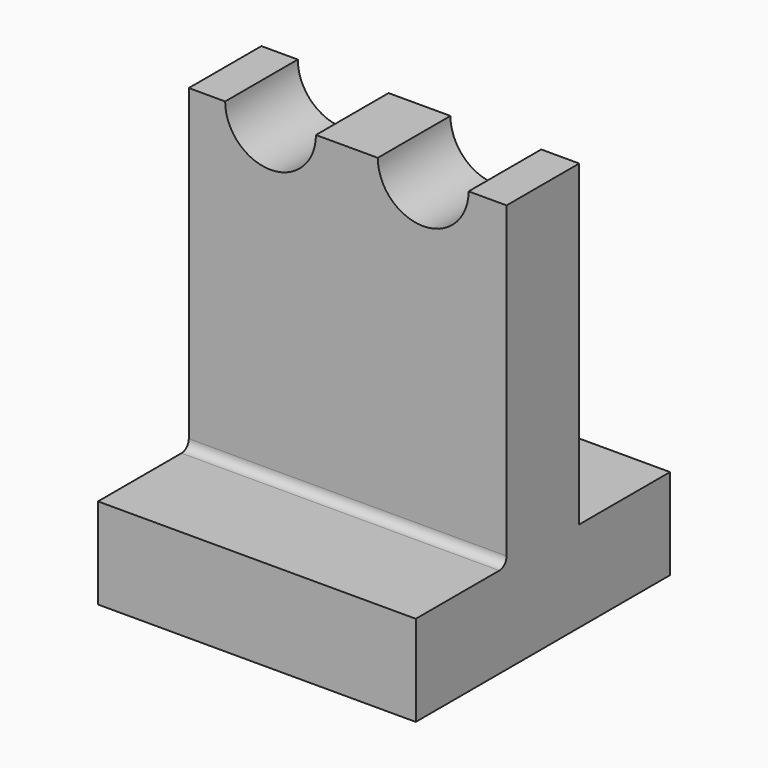
from build123d import *

# Parameters (mm, degrees)
F1_DEPTH = 1778
F3_DEPTH = 508
F4_R     = 50.8


with BuildPart() as f1:
    # F0 (on Right) → F1 (new body)
    with BuildSketch(Plane.YZ):
        Polygon((-884.329032, 243.99545), (-884.329032, -264.00455), (893.670968, -264.00455), (893.670968, 243.99545), (258.670968, 243.99545), (258.670968, 2021.99545), (-249.329032, 2021.99545), (-249.329032, 243.99545), align=None)
    extrude(amount=F1_DEPTH)

    # F2 (on face) → F3 (cut, through all)
    with BuildSketch(Plane(origin=(0, 258.670968, 0), x_dir=(-1, 0, 0), z_dir=(0, 1, 0))):
        with BuildLine():
            Line((-1057.484337, 2021.99545), (-1565.484337, 2021.99545))
            ThreePointArc((-1565.484337, 2021.99545), (-1311.484337, 1767.99545), (-1057.484337, 2021.99545))
        make_face()
        with BuildLine():
            Line((-203.42479, 2021.99545), (-711.42479, 2021.99545))
            ThreePointArc((-711.42479, 2021.99545), (-457.42479, 1767.99545), (-203.42479, 2021.99545))
        make_face()
    extrude(amount=-F3_DEPTH, mode=Mode.SUBTRACT)

    # F4
    f4_edges = [f1.edges().sort_by_distance(p)[0] for p in [
        (889, -249.329032, 243.99545),
    ]]
    fillet(f4_edges, radius=F4_R)


solid = f1.part
